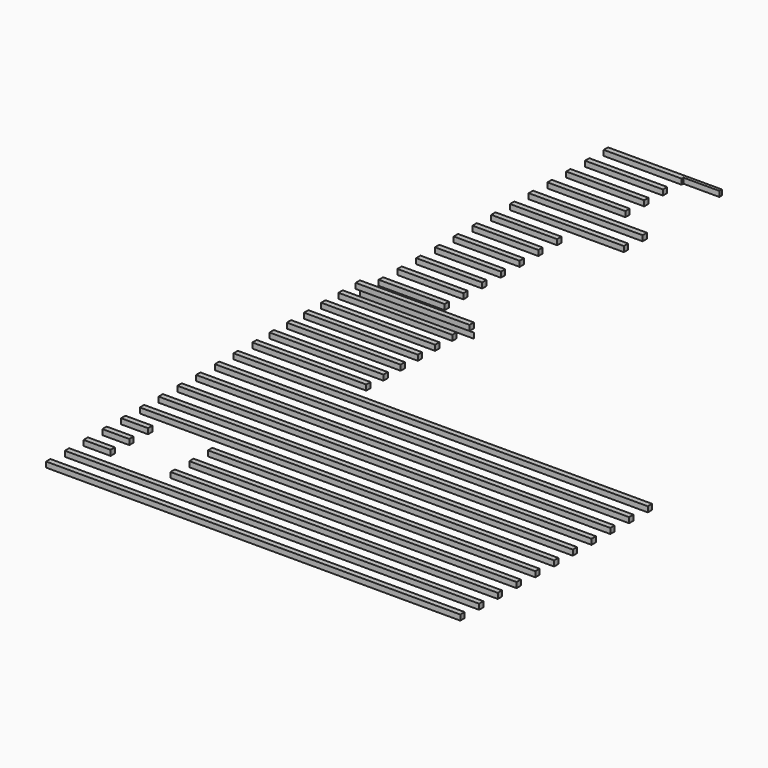
from build123d import *

# Parameters (mm, degrees)
F0_W     = 1900
F0_H     = 90
F1_DEPTH = 90
F0_W_2   = 6910
F2_START = -60
F2_DEPTH = 90
F3_W     = 1000
F3_H     = 687
F3_H_2   = 673
F3_W_2   = 800
F3_H_3   = 3110
F3_W_3   = 600
F3_H_4   = 1300
F3_H_5   = 90
F4_DEPTH = 1000


with BuildPart() as f1:
    # F0 (on Top) → F1 (new body)
    with BuildSketch(Plane.XY):
        with Locations((-866.352162238, 6396.2760958672)):
            Rectangle(F0_W, F0_H)
    extrude(amount=F1_DEPTH)


with BuildPart() as f1b:
    # F0 (on Top) → F1, piece 2 (new body)
    with BuildSketch(Plane.XY):
        with Locations((-866.352162238, 6037.2760958672)):
            Rectangle(F0_W, F0_H)
    extrude(amount=F1_DEPTH)


with BuildPart() as f1c:
    # F0 (on Top) → F1, piece 3 (new body)
    with BuildSketch(Plane.XY):
        with Locations((-866.352162238, 5678.2760958672)):
            Rectangle(F0_W, F0_H)
    extrude(amount=F1_DEPTH)


with BuildPart() as f1d:
    # F0 (on Top) → F1, piece 4 (new body)
    with BuildSketch(Plane.XY):
        with Locations((-866.352162238, 5319.2760958672)):
            Rectangle(F0_W, F0_H)
    extrude(amount=F1_DEPTH)


with BuildPart() as f1e:
    # F0 (on Top) → F1, piece 5 (new body)
    with BuildSketch(Plane.XY):
        with Locations((-866.352162238, 4960.2760958672)):
            Rectangle(F0_W, F0_H)
    extrude(amount=F1_DEPTH)


with BuildPart() as f1f:
    # F0 (on Top) → F1, piece 6 (new body)
    with BuildSketch(Plane.XY):
        with Locations((-866.352162238, 4601.2760958672)):
            Rectangle(F0_W, F0_H)
    extrude(amount=F1_DEPTH)


with BuildPart() as f1g:
    # F0 (on Top) → F1, piece 7 (new body)
    with BuildSketch(Plane.XY):
        with Locations((-866.352162238, 4242.2760958672)):
            Rectangle(F0_W, F0_H)
    extrude(amount=F1_DEPTH)


with BuildPart() as f1h:
    # F0 (on Top) → F1, piece 8 (new body)
    with BuildSketch(Plane.XY):
        with Locations((1638.647837762, 3851.2760958672)):
            Rectangle(F0_W_2, F0_H)
    extrude(amount=F1_DEPTH)


with BuildPart() as f1i:
    # F0 (on Top) → F1, piece 9 (new body)
    with BuildSketch(Plane.XY):
        with Locations((1638.647837762, 3460.2760958672)):
            Rectangle(F0_W_2, F0_H)
    extrude(amount=F1_DEPTH)


with BuildPart() as f1j:
    # F0 (on Top) → F1, piece 10 (new body)
    with BuildSketch(Plane.XY):
        with Locations((1638.647837762, 3069.2760958672)):
            Rectangle(F0_W_2, F0_H)
    extrude(amount=F1_DEPTH)


with BuildPart() as f1k:
    # F0 (on Top) → F1, piece 11 (new body)
    with BuildSketch(Plane.XY):
        with Locations((1638.647837762, 2678.2760958672)):
            Rectangle(F0_W_2, F0_H)
    extrude(amount=F1_DEPTH)


with BuildPart() as f1l:
    # F0 (on Top) → F1, piece 12 (new body)
    with BuildSketch(Plane.XY):
        with Locations((1638.647837762, 2287.2760958672)):
            Rectangle(F0_W_2, F0_H)
    extrude(amount=F1_DEPTH)


with BuildPart() as f1m:
    # F0 (on Top) → F1, piece 13 (new body)
    with BuildSketch(Plane.XY):
        with Locations((1638.647837762, 1896.2760958672)):
            Rectangle(F0_W_2, F0_H)
    extrude(amount=F1_DEPTH)


with BuildPart() as f1n:
    # F0 (on Top) → F1, piece 14 (new body)
    with BuildSketch(Plane.XY):
        with Locations((1638.647837762, 1505.2760958672)):
            Rectangle(F0_W_2, F0_H)
    extrude(amount=F1_DEPTH)


with BuildPart() as f1o:
    # F0 (on Top) → F1, piece 15 (new body)
    with BuildSketch(Plane.XY):
        with Locations((1638.647837762, 1114.2760958672)):
            Rectangle(F0_W_2, F0_H)
    extrude(amount=F1_DEPTH)


with BuildPart() as f1p:
    # F0 (on Top) → F1, piece 16 (new body)
    with BuildSketch(Plane.XY):
        with Locations((1638.647837762, 723.2760958672)):
            Rectangle(F0_W_2, F0_H)
    extrude(amount=F1_DEPTH)


with BuildPart() as f1q:
    # F0 (on Top) → F1, piece 17 (new body)
    with BuildSketch(Plane.XY):
        with Locations((1638.647837762, 332.2760958672)):
            Rectangle(F0_W_2, F0_H)
    extrude(amount=F1_DEPTH)


with BuildPart() as f1r:
    # F0 (on Top) → F1, piece 18 (new body)
    with BuildSketch(Plane.XY):
        with Locations((1638.647837762, -58.7239041328)):
            Rectangle(F0_W_2, F0_H)
    extrude(amount=F1_DEPTH)


with BuildPart() as f2:
    # F0 (on Top) → F2 (new body)
    with BuildSketch(Plane.XY.offset(F2_START)):
        with Locations((-866.352162238, 6486.2760958672)):
            Rectangle(F0_W, F0_H)
    extrude(amount=-F2_DEPTH)


with BuildPart() as f2b:
    # F0 (on Top) → F2, piece 2 (new body)
    with BuildSketch(Plane.XY.offset(F2_START)):
        with Locations((-866.352162238, 6877.2760958672)):
            Rectangle(F0_W, F0_H)
    extrude(amount=-F2_DEPTH)


with BuildPart() as f2c:
    # F0 (on Top) → F2, piece 3 (new body)
    with BuildSketch(Plane.XY.offset(F2_START)):
        with Locations((-866.352162238, 7268.2760958672)):
            Rectangle(F0_W, F0_H)
    extrude(amount=-F2_DEPTH)


with BuildPart() as f2d:
    # F0 (on Top) → F2, piece 4 (new body)
    with BuildSketch(Plane.XY.offset(F2_START)):
        with Locations((-866.352162238, 7659.2760958672)):
            Rectangle(F0_W, F0_H)
    extrude(amount=-F2_DEPTH)


with BuildPart() as f2e:
    # F0 (on Top) → F2, piece 5 (new body)
    with BuildSketch(Plane.XY.offset(F2_START)):
        with Locations((-866.352162238, 8050.2760958672)):
            Rectangle(F0_W, F0_H)
    extrude(amount=-F2_DEPTH)


with BuildPart() as f2f:
    # F0 (on Top) → F2, piece 6 (new body)
    with BuildSketch(Plane.XY.offset(F2_START)):
        with Locations((-866.352162238, 8441.2760958672)):
            Rectangle(F0_W, F0_H)
    extrude(amount=-F2_DEPTH)


with BuildPart() as f2g:
    # F0 (on Top) → F2, piece 7 (new body)
    with BuildSketch(Plane.XY.offset(F2_START)):
        with Locations((-866.352162238, 8832.2760958672)):
            Rectangle(F0_W, F0_H)
    extrude(amount=-F2_DEPTH)


with BuildPart() as f2h:
    # F0 (on Top) → F2, piece 8 (new body)
    with BuildSketch(Plane.XY.offset(F2_START)):
        with Locations((-866.352162238, 9223.2760958672)):
            Rectangle(F0_W, F0_H)
    extrude(amount=-F2_DEPTH)


with BuildPart() as f2i:
    # F0 (on Top) → F2, piece 9 (new body)
    with BuildSketch(Plane.XY.offset(F2_START)):
        with Locations((-866.352162238, 9614.2760958672)):
            Rectangle(F0_W, F0_H)
    extrude(amount=-F2_DEPTH)


with BuildPart() as f2j:
    # F0 (on Top) → F2, piece 10 (new body)
    with BuildSketch(Plane.XY.offset(F2_START)):
        with Locations((-866.352162238, 10005.2760958672)):
            Rectangle(F0_W, F0_H)
    extrude(amount=-F2_DEPTH)


with BuildPart() as f2k:
    # F0 (on Top) → F2, piece 11 (new body)
    with BuildSketch(Plane.XY.offset(F2_START)):
        with Locations((-866.352162238, 10396.2760958672)):
            Rectangle(F0_W, F0_H)
    extrude(amount=-F2_DEPTH)


with BuildPart() as f2l:
    # F0 (on Top) → F2, piece 12 (new body)
    with BuildSketch(Plane.XY.offset(F2_START)):
        with Locations((-866.352162238, 10787.2760958672)):
            Rectangle(F0_W, F0_H)
    extrude(amount=-F2_DEPTH)


with BuildPart() as f2m:
    # F0 (on Top) → F2, piece 13 (new body)
    with BuildSketch(Plane.XY.offset(F2_START)):
        with Locations((-866.352162238, 11178.2760958672)):
            Rectangle(F0_W, F0_H)
    extrude(amount=-F2_DEPTH)


with BuildPart() as f2n:
    # F0 (on Top) → F2, piece 14 (new body)
    with BuildSketch(Plane.XY.offset(F2_START)):
        with Locations((-866.352162238, 11569.2760958672)):
            Rectangle(F0_W, F0_H)
    extrude(amount=-F2_DEPTH)


with BuildPart() as f4_tool:
    # F3 (on face) → F4 (new body)
    with BuildSketch(Plane.XY.offset(90)):
        with Locations((-866.352162238, 1502.7760958672)):
            Rectangle(F3_W, F3_H)
        with Locations((-866.352162238, 732.7760958672)):
            Rectangle(F3_W, F3_H_2)
        with Locations((-316.352162238, 7997.2760958672)):
            Rectangle(F3_W_2, F3_H_3)
        with Locations((-216.352162238, 10911.2760958672)):
            Rectangle(F3_W_3, F3_H_4)
        with Locations((-866.352162238, 1114.2760958672)):
            Rectangle(F3_W, F3_H_5)
    extrude(amount=-F4_DEPTH)


with BuildPart() as f1n_1:
    add(f1n.part)

    # F4: cut by f4_tool
    add(f4_tool.part, mode=Mode.SUBTRACT)


with BuildPart() as f1o_1:
    add(f1o.part)

    # F4: cut by f4_tool
    add(f4_tool.part, mode=Mode.SUBTRACT)


with BuildPart() as f1p_1:
    add(f1p.part)

    # F4: cut by f4_tool
    add(f4_tool.part, mode=Mode.SUBTRACT)


with BuildPart() as f2_1:
    add(f2.part)

    # F4: cut by f4_tool
    add(f4_tool.part, mode=Mode.SUBTRACT)


with BuildPart() as f2b_1:
    add(f2b.part)

    # F4: cut by f4_tool
    add(f4_tool.part, mode=Mode.SUBTRACT)


with BuildPart() as f2c_1:
    add(f2c.part)

    # F4: cut by f4_tool
    add(f4_tool.part, mode=Mode.SUBTRACT)


with BuildPart() as f2d_1:
    add(f2d.part)

    # F4: cut by f4_tool
    add(f4_tool.part, mode=Mode.SUBTRACT)


with BuildPart() as f2e_1:
    add(f2e.part)

    # F4: cut by f4_tool
    add(f4_tool.part, mode=Mode.SUBTRACT)


with BuildPart() as f2f_1:
    add(f2f.part)

    # F4: cut by f4_tool
    add(f4_tool.part, mode=Mode.SUBTRACT)


with BuildPart() as f2g_1:
    add(f2g.part)

    # F4: cut by f4_tool
    add(f4_tool.part, mode=Mode.SUBTRACT)


with BuildPart() as f2h_1:
    add(f2h.part)

    # F4: cut by f4_tool
    add(f4_tool.part, mode=Mode.SUBTRACT)


with BuildPart() as f2k_1:
    add(f2k.part)

    # F4: cut by f4_tool
    add(f4_tool.part, mode=Mode.SUBTRACT)


with BuildPart() as f2l_1:
    add(f2l.part)

    # F4: cut by f4_tool
    add(f4_tool.part, mode=Mode.SUBTRACT)


with BuildPart() as f2m_1:
    add(f2m.part)

    # F4: cut by f4_tool
    add(f4_tool.part, mode=Mode.SUBTRACT)


with BuildPart() as f2n_1:
    add(f2n.part)

    # F4: cut by f4_tool
    add(f4_tool.part, mode=Mode.SUBTRACT)


solid = Compound([f1.part, f1b.part, f1c.part, f1d.part, f1e.part, f1f.part, f1g.part, f1h.part, f1i.part, f1j.part, f1k.part, f1l.part, f1m.part, f1q.part, f1r.part, f2i.part, f2j.part, f1n_1.part, f1o_1.part, f1p_1.part, f2_1.part, f2b_1.part, f2c_1.part, f2d_1.part, f2e_1.part, f2f_1.part, f2g_1.part, f2h_1.part, f2k_1.part, f2l_1.part, f2m_1.part, f2n_1.part])
